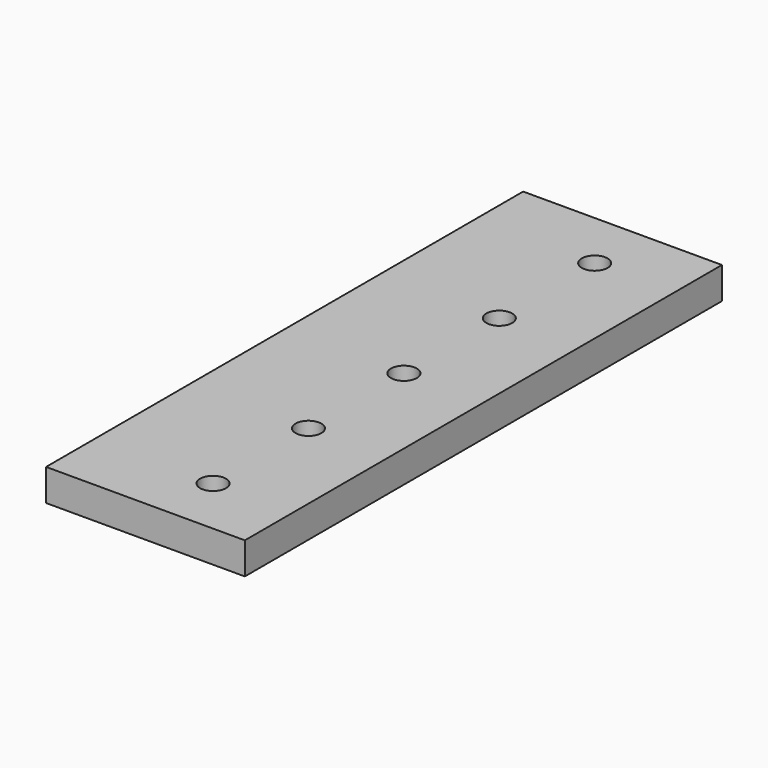
from build123d import *

# Parameters (mm, degrees)
F0_W     = 50
F0_H     = 8
F1_DEPTH = 150
F3_D     = 6.5


with BuildPart() as f1:
    # F0 (on Front) → F1 (new body)
    with BuildSketch(Plane.XZ):
        with Locations((25, 4)):
            Rectangle(F0_W, F0_H)
    extrude(amount=F1_DEPTH)

    # F3 (through all)
    with Locations(Plane.XY.offset(8)):
        with Locations((30, -15), (30, -45), (30, -75), (30, -105), (30, -135)):
            Hole(F3_D / 2)


solid = f1.part
